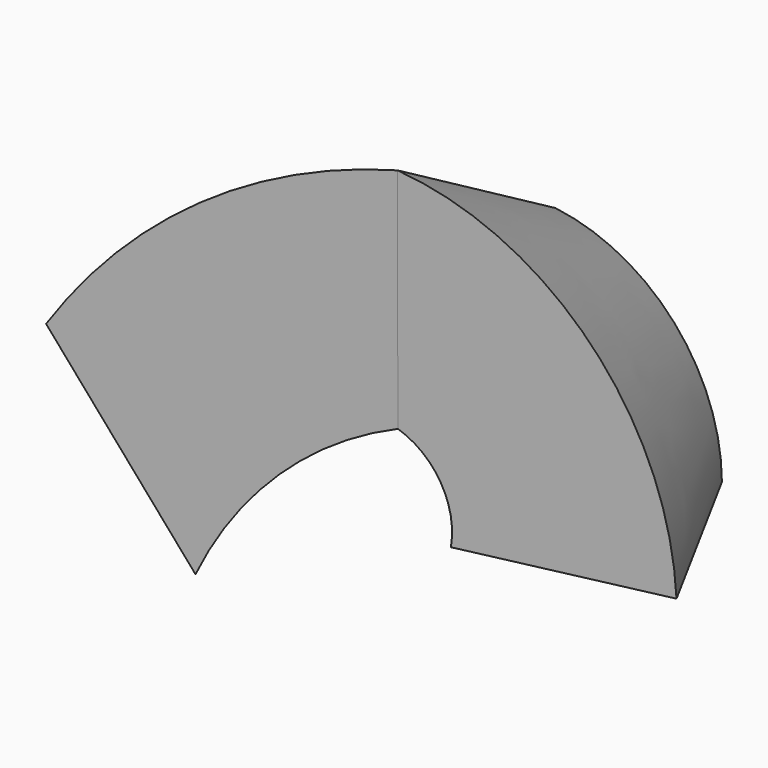
from build123d import *


with BuildPart() as f2:
    # F2: sweep along a path in F0
    with BuildLine(Plane.XZ) as f2_path:
        ThreePointArc((40.181566, -24.196928), (28.629821, 5.983289), (0, 20.970672))
    # F1 (on Right) → F2 (sweep)
    with BuildSketch(Plane.YZ):
        Polygon((31.79517, 21.039483), (-15.957177, 48.471692), (-15.837993, -6.599158), align=None)
    sweep(path=f2_path.line)

    # F4: sweep along a path in F3
    with BuildLine(Plane.XZ) as f4_path:
        ThreePointArc((0, 21.263966), (-38.418275, 0.478817), (-67.164809, -32.409221))
    # F1 (on Right) → F4 (sweep)
    with BuildSketch(Plane.YZ):
        Polygon((31.79517, 21.039483), (-15.957177, 48.471692), (-15.837993, -6.599158), align=None)
    sweep(path=f4_path.line)


solid = f2.part
